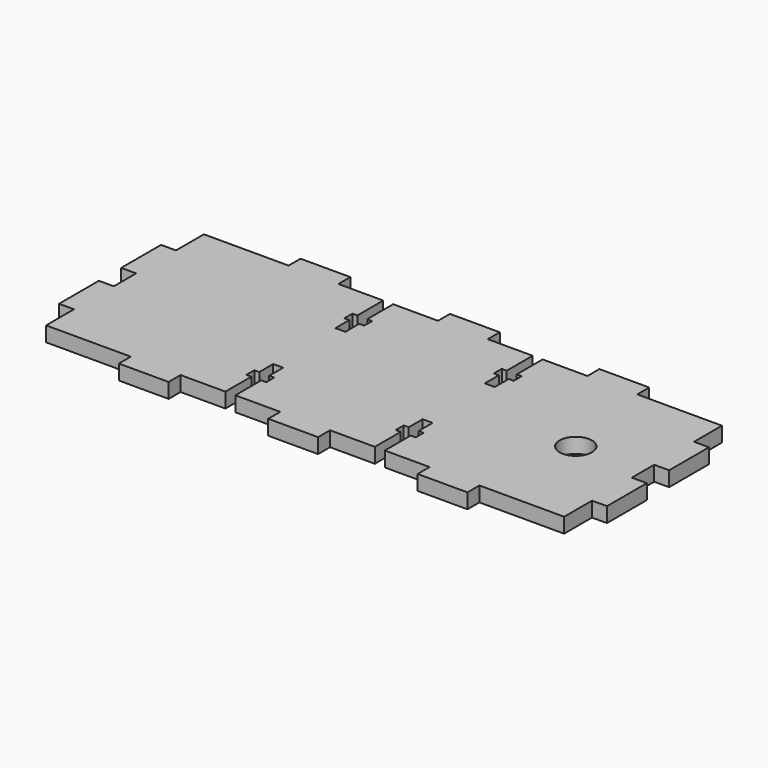
from build123d import *

# Parameters (mm, degrees)
F0_R     = 3.25
F1_DEPTH = 3


with BuildPart() as f1:
    # F0 (on Top) → F1 (new body)
    with BuildSketch(Plane.XY):
        Polygon((0, 7), (0, 0), (17, 0), (17, -3), (27, -3), (27, 0), (36, 0), (36, 6.5), (35, 6.5), (35, 8.5), (36, 8.5), (36, 12), (38, 12), (38, 8.5), (39, 8.5), (39, 6.5), (38, 6.5), (38, 0), (47, 0), (47, -3), (57, -3), (57, 0), (66, 0), (66, 6.5), (65, 6.5), (65, 8.5), (66, 8.5), (66, 12), (68, 12), (68, 8.5), (69, 8.5), (69, 6.5), (68, 6.5), (68, 0), (77, 0), (77, -3), (87, -3), (87, 0), (104, 0), (104, 7), (107, 7), (107, 17), (104, 17), (104, 22.6), (107, 22.6), (107, 32.6), (104, 32.6), (104, 39.6), (87, 39.6), (87, 42.6), (77, 42.6), (77, 39.6), (68, 39.6), (68, 33.1), (69, 33.1), (69, 31.1), (68, 31.1), (68, 27.6), (66, 27.6), (66, 31.1), (65, 31.1), (65, 33.1), (66, 33.1), (66, 39.6), (57, 39.6), (57, 42.6), (47, 42.6), (47, 39.6), (38, 39.6), (38, 33.1), (39, 33.1), (39, 31.1), (38, 31.1), (38, 27.6), (36, 27.6), (36, 31.1), (35, 31.1), (35, 33.1), (36, 33.1), (36, 39.6), (27, 39.6), (27, 42.6), (17, 42.6), (17, 39.6), (0, 39.6), (0, 32.6), (-3, 32.6), (-3, 22.6), (0, 22.6), (0, 17), (-3, 17), (-3, 7), align=None)
        with Locations((90.5, 19.8)):
            Circle(F0_R, mode=Mode.SUBTRACT)
    extrude(amount=F1_DEPTH)


solid = f1.part
